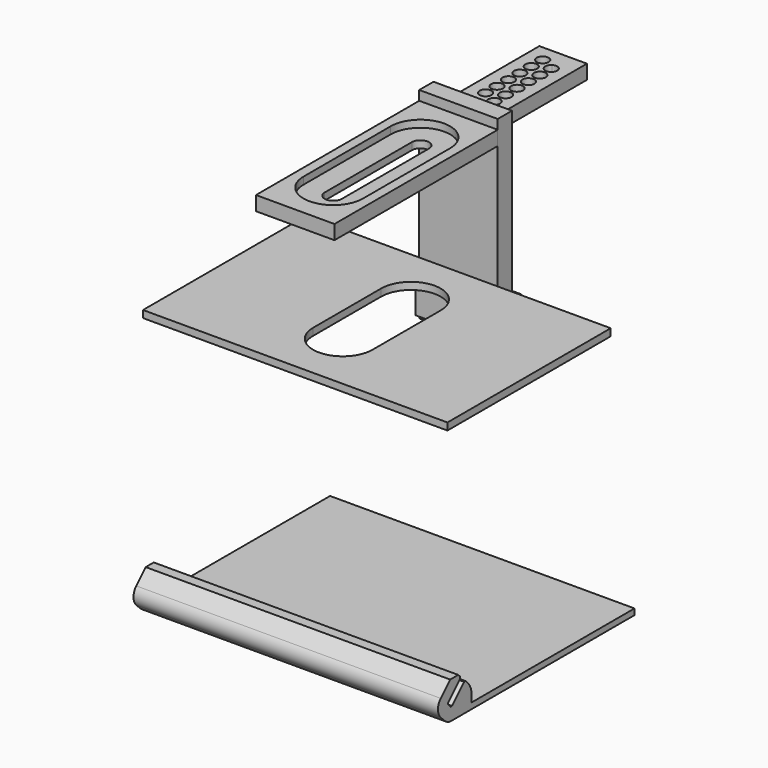
from build123d import *

# Parameters (mm, degrees)
F3_DEPTH  = 64
F4_R      = 5
F5_R      = 7.5
F6_SIZE   = 0.5
F7_SIZE   = 3
F8_DEPTH  = 16.5
F11_W     = 20
F11_H     = 7.5
F12_DEPTH = 3
F14_W     = 20
F14_H     = 55
F14_R     = 2.5
F15_DEPTH = 6
F17_DEPTH = 3


with BuildPart() as f3:
    # F2 (on Right) → F3 (new body, symmetric)
    with BuildSketch(Plane.YZ):
        Polygon((-96.2167747731, -71.2167747731), (-98.3027397776, -69.1308097686), (-91.2316719657, -62.0597419567), (-94.7672058716, -58.5242080508), (-105.3738075894, -69.1308097686), (-98.3027397776, -76.2018775804), (0, -76.2018775804), (0, -73.7018775804), (-85.6101730553, -73.7018775804), (-85.6101730553, -67.6812408671), (-89.1457069612, -64.1457069612), align=None)
    extrude(amount=F3_DEPTH, both=True)

    # F4
    f4_edges = [f3.edges().sort_by_distance(p)[0] for p in [
        (0, -105.373808, -69.13081),
        (0, -98.30274, -76.201878),
    ]]
    fillet(f4_edges, radius=F4_R)

    # F5
    f5_edges = [f3.edges().sort_by_distance(p)[0] for p in [
        (0, -85.610173, -67.681241),
    ]]
    fillet(f5_edges, radius=F5_R)

    # F6
    f6_edges = [f3.edges().sort_by_distance(p)[0] for p in [
        (0, -98.30274, -69.13081),
        (0, -96.216775, -71.216775),
        (0, -89.145707, -64.145707),
        (0, -91.231672, -62.059742),
    ]]
    chamfer(f6_edges, length=F6_SIZE)

    # F7
    f7_edges = [f3.edges().sort_by_distance(p)[0] for p in [
        (0, -94.767206, -58.524208),
    ]]
    chamfer(f7_edges, length=F7_SIZE)


with BuildPart() as f8:
    # F2 (on Right) → F8 (new body, symmetric)
    with BuildSketch(Plane.YZ):
        Polygon((-14.5859650045, 14.5859650045), (-7.0859650045, 22.0859650045), (-5, 20), (-12.5, 12.5), (0, 12.5), (0, 27.0859650045), (-5, 27.0859650045), (-5, 97.0859650045), (-12.5, 97.0859650045), (-12.5, 27.0859650045), (-14.5, 27.0859650045), align=None)
    extrude(amount=F8_DEPTH, both=True)


with BuildPart() as f12:
    # F11 (on offset) → F12 (new body)
    with BuildSketch(Plane.XY.offset(32.0859650045)):
        Polygon((-64, -98.3027397776), (64, -98.3027397776), (64, -12.5), (10, -12.5), (-10, -12.5), (-64, -12.5), align=None)
        with BuildLine():
            ThreePointArc((-12.5, -37.5), (0, -25), (12.5, -37.5))
            Line((12.5, -37.5), (12.5, -73.3027397776))
            ThreePointArc((12.5, -73.3027397776), (0, -85.8027397776), (-12.5, -73.3027397776))
            Line((-12.5, -73.3027397776), (-12.5, -37.5))
        make_face(mode=Mode.SUBTRACT)
        with Locations((0, -8.75)):
            Rectangle(F11_W, F11_H)
    extrude(amount=F12_DEPTH)


with BuildPart() as f15:
    # F14 (on offset) → F15 (new body)
    with BuildSketch(Plane.XY.offset(87.0859650045)):
        Polygon((-16.5, -98.3027397776), (16.5, -98.3027397776), (16.5, -12.5), (10, -12.5), (-10, -12.5), (-16.5, -12.5), align=None)
        with BuildLine():
            ThreePointArc((-3.625, -32.5), (0, -28.875), (3.625, -32.5))
            Line((3.625, -32.5), (3.625, -78.3027397776))
            ThreePointArc((3.625, -78.3027397776), (0, -81.9277397776), (-3.625, -78.3027397776))
            Line((-3.625, -78.3027397776), (-3.625, -32.5))
        make_face(mode=Mode.SUBTRACT)
        with Locations((0, 15)):
            Rectangle(F14_W, F14_H)
        with Locations((-3, 5.5)):
            Circle(F14_R, mode=Mode.SUBTRACT)
        with Locations((-3, 11.5)):
            Circle(F14_R, mode=Mode.SUBTRACT)
        with Locations((-3, 17.5)):
            Circle(F14_R, mode=Mode.SUBTRACT)
        with Locations((-3, 23.5)):
            Circle(F14_R, mode=Mode.SUBTRACT)
        with Locations((-3, 29.5)):
            Circle(F14_R, mode=Mode.SUBTRACT)
        with BuildLine():
            ThreePointArc((-0.5, 35.5), (-0.5442422735, 35.0317543498), (-0.6754031912, 34.5800817013))
            ThreePointArc((-0.6754031912, 34.5800817013), (-5.4557577265, 35.9682456502), (-0.5, 35.5))
        make_face(mode=Mode.SUBTRACT)
        with Locations((3, 2.5)):
            Circle(F14_R, mode=Mode.SUBTRACT)
        with Locations((3, 8.5)):
            Circle(F14_R, mode=Mode.SUBTRACT)
        with Locations((3, 14.5)):
            Circle(F14_R, mode=Mode.SUBTRACT)
        with Locations((3, 20.5)):
            Circle(F14_R, mode=Mode.SUBTRACT)
        with Locations((3, 26.5)):
            Circle(F14_R, mode=Mode.SUBTRACT)
        with BuildLine():
            ThreePointArc((5.5, 32.5), (1.8203901811, 30.2957947747), (1.6131834599, 34.5800817013))
            ThreePointArc((1.6131834599, 34.5800817013), (4.1796098189, 34.7042052253), (5.5, 32.5))
        make_face(mode=Mode.SUBTRACT)
    extrude(amount=F15_DEPTH)

    # F16 (on face) → F17 (cut)
    with BuildSketch(Plane.XY.offset(93.0859650045)):
        with BuildLine():
            ThreePointArc((-12.5, -32.5), (0, -45), (12.5, -32.5))
            ThreePointArc((12.5, -32.5), (0, -20), (-12.5, -32.5))
        make_face()
        with BuildLine():
            Line((12.5, -78.3027397776), (12.5, -32.5))
            ThreePointArc((12.5, -32.5), (0, -45), (-12.5, -32.5))
            Line((-12.5, -32.5), (-12.5, -78.3027397776))
            ThreePointArc((-12.5, -78.3027397776), (0, -65.8027397776), (12.5, -78.3027397776))
        make_face()
        with BuildLine():
            ThreePointArc((-12.5, -78.3027397776), (0, -90.8027397776), (12.5, -78.3027397776))
            ThreePointArc((12.5, -78.3027397776), (0, -65.8027397776), (-12.5, -78.3027397776))
        make_face()
    extrude(amount=-F17_DEPTH, mode=Mode.SUBTRACT)


solid = Compound([f3.part, f8.part, f12.part, f15.part])
